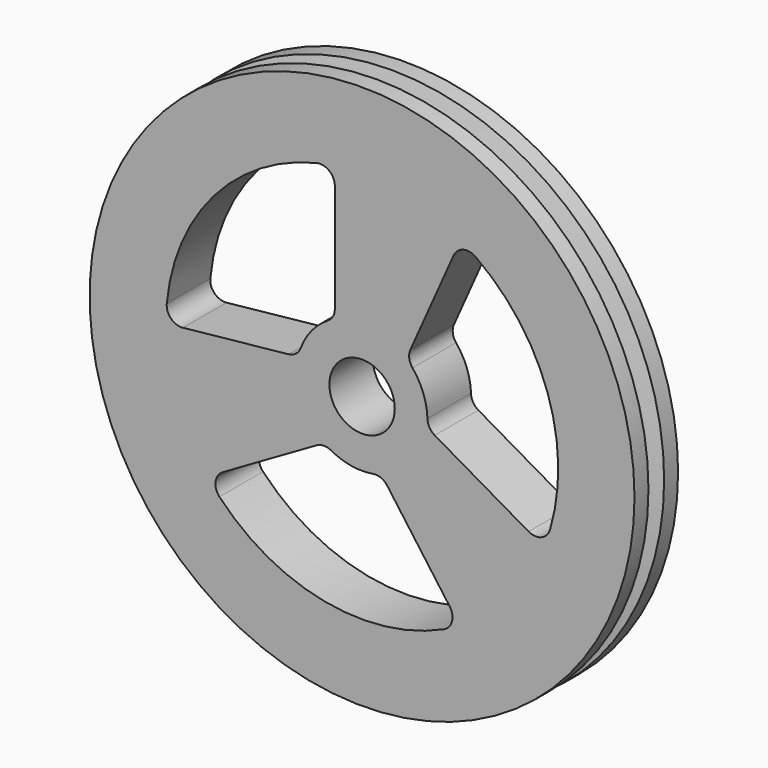
from build123d import *

# Parameters (mm, degrees)
F0_R     = 63.5
F0_R_2   = 7.62
F1_DEPTH = 6.35


with BuildPart() as f1:
    # F0 (on Front) → F1 (new body, symmetric)
    with BuildSketch(Plane.XZ):
        Circle(F0_R)
        with BuildLine():
            ThreePointArc((-33.697905, -27.295793), (-33.159597, -26.606146), (-32.464053, -26.075478))
            Line((-32.464053, -26.075478), (-10.594432, -13.449047))
            ThreePointArc((-10.594432, -13.449047), (-8.930055, -12.990774), (-7.25369, -13.403043))
            ThreePointArc((-7.25369, -13.403043), (-2.498289, -15.033834), (2.528965, -15.028704))
            ThreePointArc((2.528965, -15.028704), (4.391844, -15.235603), (5.866486, -16.392562))
            Line((5.866486, -16.392562), (20.419015, -36.426942))
            ThreePointArc((20.419015, -36.426942), (20.960921, -39.305626), (19.077861, -41.549412))
            ThreePointArc((19.077861, -41.549412), (-8.715152, -44.881672), (-33.241292, -31.390045))
            ThreePointArc((-33.241292, -31.390045), (-34.154471, -29.4193), (-33.697905, -27.295793))
        make_face(mode=Mode.SUBTRACT)
        with BuildLine():
            ThreePointArc((-45.521777, 4.252793), (-34.511093, 29.988379), (-10.56393, 44.482826))
            ThreePointArc((-10.56393, 44.482826), (-7.650549, 43.837984), (-6.35, 41.152434))
            Line((-6.35, 41.152434), (-6.35, 15.899571))
            ThreePointArc((-6.35, 15.899571), (-6.785313, 14.229042), (-7.980531, 12.983402))
            ThreePointArc((-7.980531, 12.983402), (-11.770537, 9.680499), (-14.279722, 5.324203))
            ThreePointArc((-14.279722, 5.324203), (-15.390341, 3.814353), (-17.129618, 3.115755))
            Line((-17.129618, 3.115755), (-41.756164, 0.530086))
            ThreePointArc((-41.756164, 0.530086), (-44.520131, 1.500123), (-45.521777, 4.252793))
        make_face(mode=Mode.SUBTRACT)
        Circle(F0_R_2, mode=Mode.SUBTRACT)
        with BuildLine():
            Line((11.263132, 13.276807), (21.33715, 35.896856))
            ThreePointArc((21.33715, 35.896856), (23.55921, 37.805503), (26.443915, 37.296618))
            ThreePointArc((26.443915, 37.296618), (43.226245, 14.893293), (43.805222, -13.092781))
            ThreePointArc((43.805222, -13.092781), (41.790083, -15.293422), (38.814053, -15.076956))
            Line((38.814053, -15.076956), (16.944432, -2.450524))
            ThreePointArc((16.944432, -2.450524), (15.715368, -1.238268), (15.234221, 0.419642))
            ThreePointArc((15.234221, 0.419642), (14.268826, 5.353335), (11.750756, 9.7045))
            ThreePointArc((11.750756, 9.7045), (10.998497, 11.42125), (11.263132, 13.276807))
        make_face(mode=Mode.SUBTRACT)
    extrude(amount=F1_DEPTH, both=True)

    # F2 (on Right) → F3 (revolve, cut)
    with BuildSketch(Plane.YZ):
        Polygon((-2.286, 63.5), (0, 54.61), (0, 63.5), align=None)
        Polygon((0, 63.5), (0, 54.61), (2.286, 63.5), align=None)
    revolve(axis=Axis((0, -4.296992, 0), (0, 1, 0)), mode=Mode.SUBTRACT)


solid = f1.part
